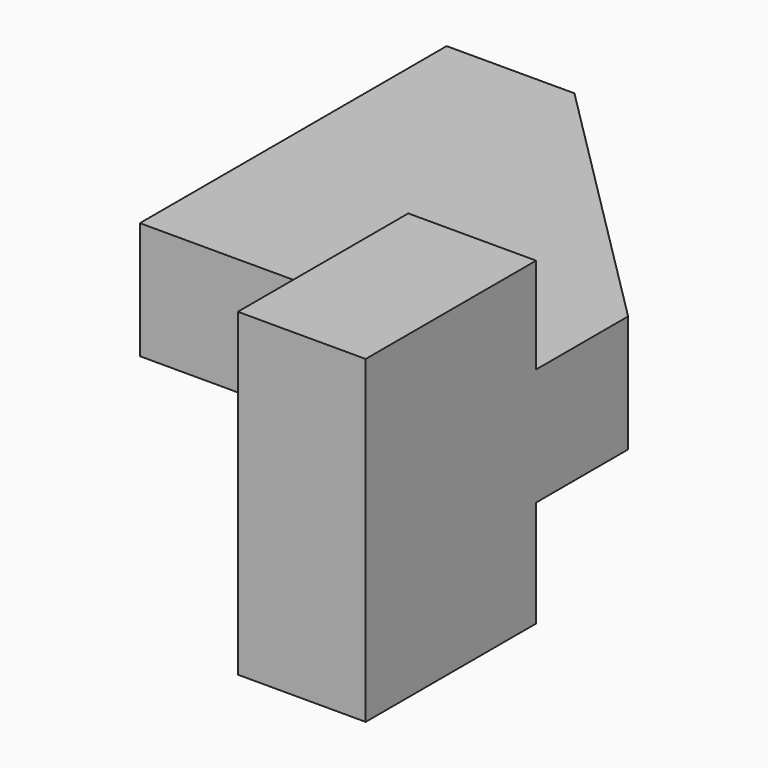
from build123d import *

# Parameters (mm, degrees)
PAD_DEPTH         = 5.5
SKETCH001_W       = 6
SKETCH001_H       = 10
PAD001_DEPTH      = 4.5
PAD001_DEPTH_BACK = 10.5
SKETCH002_R       = 2.25
POCKET_DEPTH      = 5


with BuildPart() as part:
    # Sketch → Pad (new body)
    with BuildSketch(Plane.XY):
        Polygon((-12.6, 18), (-12.6, 0), (0, 0), (0, -10), (6, -10), (6, 5.4), (-6.6, 18), align=None)
    extrude(amount=PAD_DEPTH)

    # Sketch001 (on Face9 of Pad) → Pad001 (join, two sides)
    with BuildSketch(Plane.XY.offset(5.5)) as pad001_sk:
        with Locations((3, -5)):
            Rectangle(SKETCH001_W, SKETCH001_H)
    extrude(amount=PAD001_DEPTH)
    extrude(pad001_sk.sketch, amount=-PAD001_DEPTH_BACK)

    # Sketch002 (on Face4 of Pad001) → Pocket (cut)
    with BuildSketch(Plane(origin=(0, 0, 0), x_dir=(1, 0, 0), z_dir=(0, 0, -1))):
        with Locations((-9.6, -7.4)):
            Circle(SKETCH002_R)
        with Locations((-9.6, -12.4)):
            Circle(SKETCH002_R)
    extrude(amount=-POCKET_DEPTH, mode=Mode.SUBTRACT)


solid = part.part
